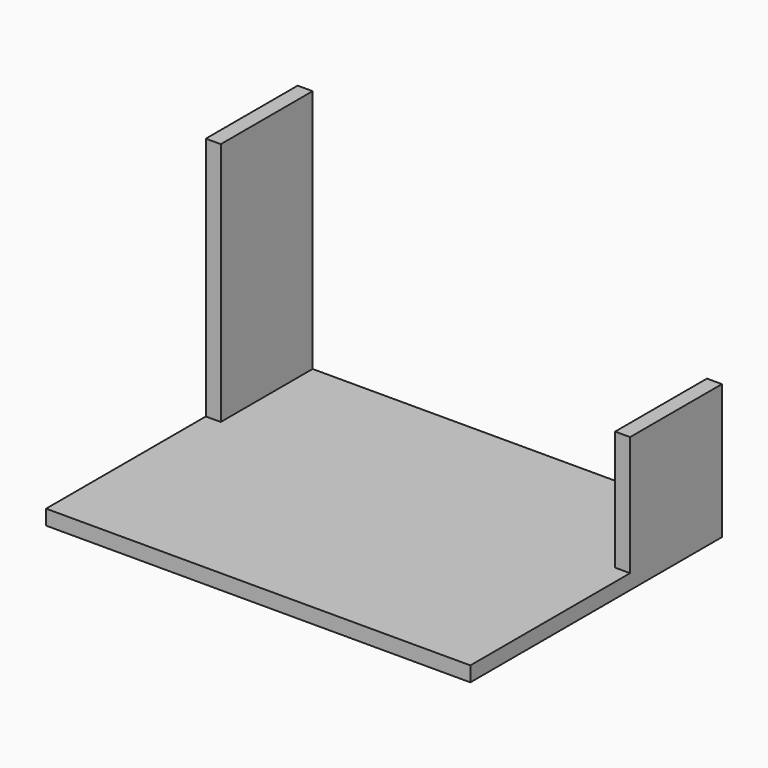
from build123d import *

# Parameters (mm, degrees)
F0_W     = 85
F0_H     = 23
F0_H_2   = 40
F1_DEPTH = 3
F2_W     = 3
F2_H     = 23
F3_DEPTH = 24
F4_W     = 3
F4_H     = 23
F5_DEPTH = 25


with BuildPart() as f1:
    # F0 (on Top) → F1 (new body)
    with BuildSketch(Plane.XY):
        with Locations((42.5, 11.5)):
            Rectangle(F0_W, F0_H)
        with Locations((42.5, -20)):
            Rectangle(F0_W, F0_H_2)
    extrude(amount=F1_DEPTH)

    # F2 (on face) → F3 (join)
    with BuildSketch(Plane.XY.offset(3)):
        with Locations((1.5, 11.5)):
            Rectangle(F2_W, F2_H)
        with Locations((83.5, 11.5)):
            Rectangle(F2_W, F2_H)
    extrude(amount=F3_DEPTH)

    # F4 (on face) → F5 (join)
    with BuildSketch(Plane.XY.offset(27)):
        with Locations((1.5, 11.5)):
            Rectangle(F4_W, F4_H)
    extrude(amount=F5_DEPTH)


solid = f1.part
